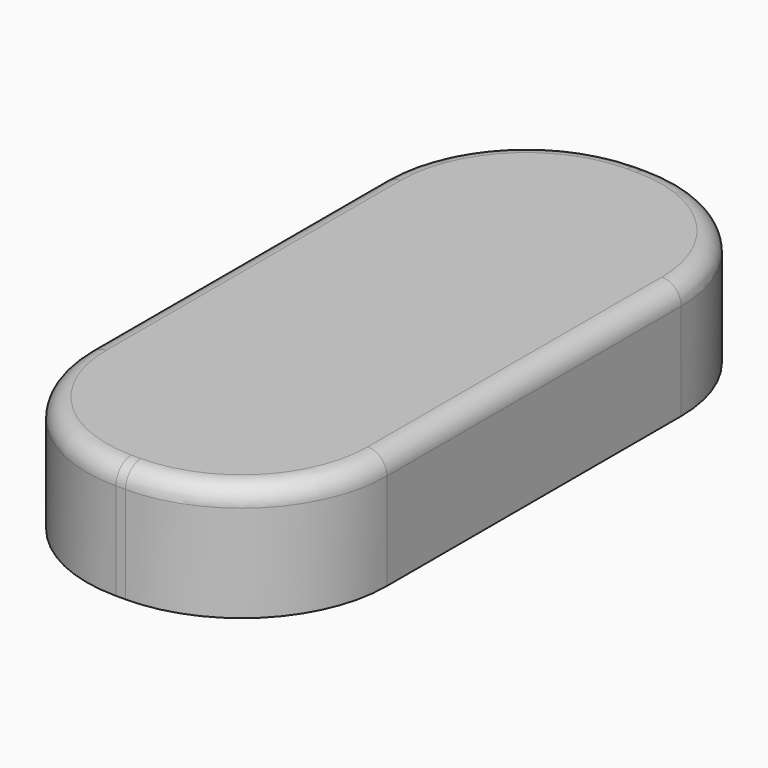
from build123d import *

# Parameters (mm, degrees)
BOX018_W     = 31
BOX018_H     = 68
BOX018_DEPTH = 12
FILLET010_R  = 15
FILLET011_R  = 2


with BuildPart() as part:
    # Box018 → Box018 (new body)
    with BuildSketch(Plane(origin=(-15.5, -34, 1.7), x_dir=(1, 0, 0), z_dir=(0, 0, 1))):
        with Locations((15.5, 34)):
            Rectangle(BOX018_W, BOX018_H)
    extrude(amount=BOX018_DEPTH)

    # Fillet010
    fillet010_edges = [part.edges().sort_by_distance(p)[0] for p in [
        (-15.5, -34, 7.7),
        (-15.5, 34, 7.7),
        (15.5, -34, 7.7),
        (15.5, 34, 7.7),
    ]]
    fillet(fillet010_edges, radius=FILLET010_R)

    # Fillet011
    fillet011_edges = [part.edges().sort_by_distance(p)[0] for p in [
        (-15.5, 0, 13.7),
        (-11.106602, -29.606602, 13.7),
        (-11.106602, 29.606602, 13.7),
        (0, -34, 13.7),
        (0, 34, 13.7),
        (11.106602, -29.606602, 13.7),
        (11.106602, 29.606602, 13.7),
        (15.5, 0, 13.7),
    ]]
    fillet(fillet011_edges, radius=FILLET011_R)


with BuildPart() as part_1:
    # Fillet011 placement: moved
    add(part.part.moved(Location((0, 0, 40))))


solid = part_1.part
